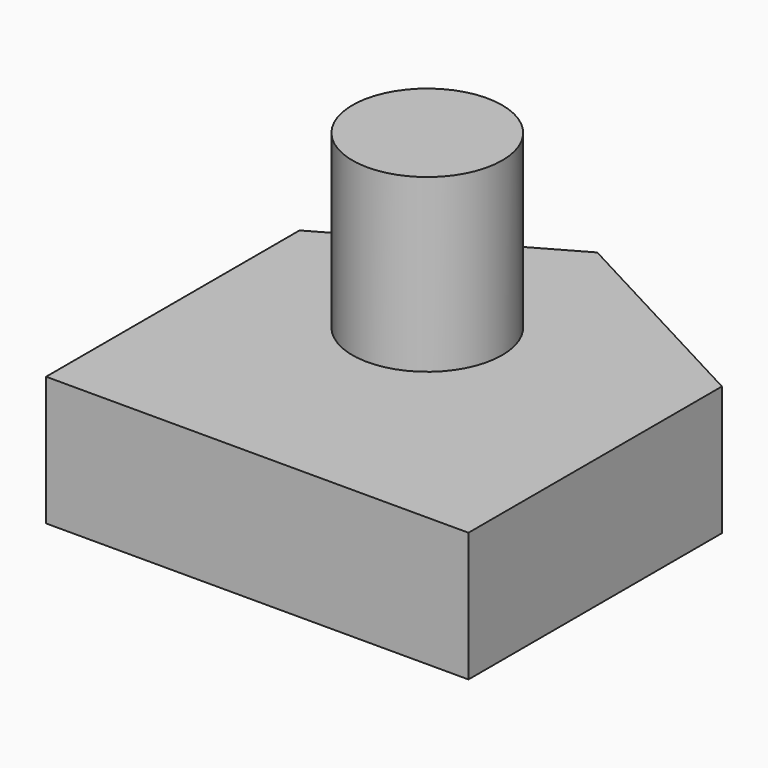
from build123d import *

# Parameters (mm, degrees)
F0_W     = 120
F0_H     = 90
F1_DEPTH = 36.7
F2_R     = 21.278703
F3_DEPTH = 48.7


with BuildPart() as f1:
    # F0 (on Top) → F1 (new body)
    with BuildSketch(Plane.XY):
        with Locations((4.541662, -26.278703)):
            Rectangle(F0_W, F0_H)
        Polygon((2.73243, 51.721297), (-55.458338, 18.721297), (64.541662, 18.721297), align=None)
    extrude(amount=F1_DEPTH)

    # F2 (on face) → F3 (join)
    with BuildSketch(Plane.XY.offset(36.7)):
        with Locations((-4.179635, 0)):
            Circle(F2_R)
    extrude(amount=F3_DEPTH)


solid = f1.part
